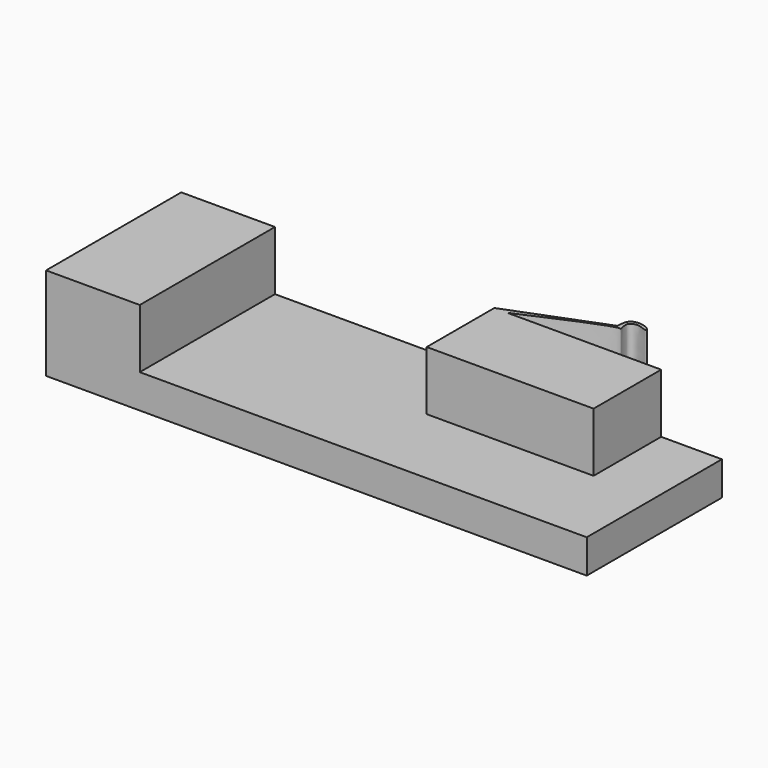
from build123d import *

# Parameters (mm, degrees)
F0_W     = 32
F0_H     = 10
F1_DEPTH = 2
F2_W     = 5.5458344221
F2_H     = 10
F3_DEPTH = 3.5


with BuildPart() as f1:
    # F0 (on Top) → F1 (new body)
    with BuildSketch(Plane.XY):
        Rectangle(F0_W, F0_H)
    extrude(amount=F1_DEPTH)

    # F2 (on face) → F3 (join)
    with BuildSketch(Plane.XY.offset(2)):
        with Locations((-13.2270827889, 0)):
            Rectangle(F2_W, F2_H)
        Polygon((2.5292073842, 5), (2.5292073842, 0), (12.4046290293, 0), (12.4046290293, 5), (3.291498404, 5), align=None)
        with BuildLine():
            add(Edge.make_bspline(
                [(2.5292073842, 5), (5.2035244989, 6.0418348222), (8.0453184048, 7.1489136471), (8.1041145395, 7.1565554808), (8.0473425114, 8.133686708), (9.2376280574, 7.9731977463), (9.5068539233, 7.5755852075), (9.1235107264, 7.7043597462), (8.8235780734, 7.8327776335), (8.3286628848, 7.7368701942), (8.3044574124, 7.3266214299), (8.4332999689, 6.9737546554), (8.2501261437, 7.1971235789), (5.6552671519, 6.0473647799), (3.291498404, 5)],
                knots=[0, 0, 0, 0, 0.234010353, 0.2486650485, 0.3287196568, 0.4233820842, 0.4742354681, 0.5224329693, 0.581279542, 0.6428950899, 0.7024365474, 0.7539351311, 0.7758489194, 1, 1, 1, 1], degree=3))
            Line((2.5292073842, 5), (3.291498404, 5))
        make_face()
    extrude(amount=F3_DEPTH)


solid = f1.part
